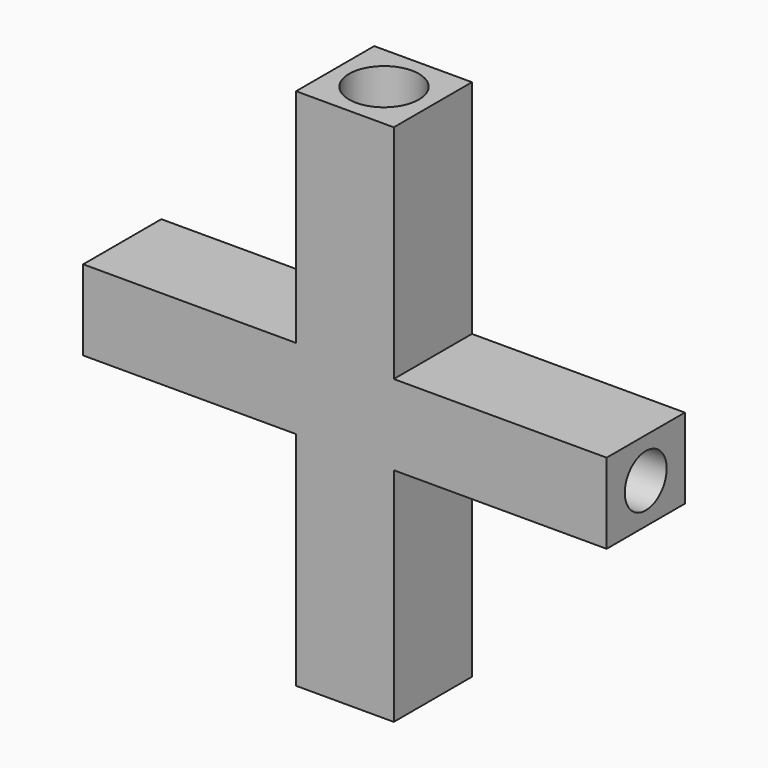
from build123d import *

# Parameters (mm, degrees)
F0_W     = 5.6
F0_H     = 5.6
F0_R     = 2
F1_DEPTH = 30
F2_W     = 5.6
F2_H     = 4.6
F2_R     = 1.5
F3_DEPTH = 12.2
F4_W     = 5.6
F4_H     = 4.6
F4_R     = 1.5
F5_DEPTH = 12.2


with BuildPart() as f1:
    # F0 (on Top) → F1 (new body)
    with BuildSketch(Plane.XY):
        Rectangle(F0_W, F0_H)
        Circle(F0_R, mode=Mode.SUBTRACT)
    extrude(amount=F1_DEPTH)

    # F2 (on face) → F3 (join)
    with BuildSketch(Plane.YZ.offset(2.8)):
        with Locations((0, 15)):
            Rectangle(F2_W, F2_H)
        with Locations((0, 15)):
            Circle(F2_R, mode=Mode.SUBTRACT)
    extrude(amount=F3_DEPTH)

    # F4 (on face) → F5 (join)
    with BuildSketch(Plane(origin=(-2.8, 0, 0), x_dir=(0, -1, 0), z_dir=(-1, 0, 0))):
        with Locations((0, 15)):
            Rectangle(F4_W, F4_H)
        with Locations((0, 15)):
            Circle(F4_R, mode=Mode.SUBTRACT)
    extrude(amount=F5_DEPTH)


solid = f1.part
